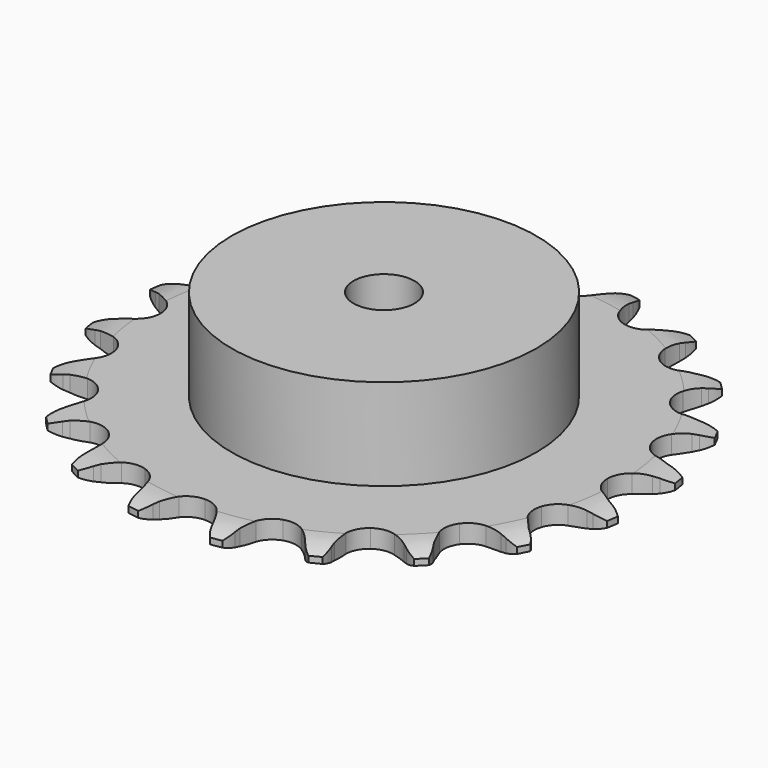
from build123d import *

# Parameters (mm, degrees)
PAD_DEPTH         = 3
SKETCH001_R       = 25
PAD001_DEPTH      = 18
SKETCH002_R       = 5
POCKET_DEPTH      = 0.001
POCKET_DEPTH_BACK = -18.001


with BuildPart() as part:
    # Sprocket → Pad (new body)
    with BuildSketch(Plane.XY):
        with BuildLine():
            ThreePointArc((-6.98096, 44.076044), (-5.717913, 42.871479), (-4.828078, 41.369994))
            Line((-4.828078, 41.369994), (-4.455089, 40.482687))
            ThreePointArc((-4.455089, 40.482687), (-3.853732, 39.281805), (-3.098833, 38.171005))
            ThreePointArc((-3.098833, 38.171005), (-1.723884, 37.057593), (0, 36.659603))
            ThreePointArc((0, 36.659603), (1.723884, 37.057593), (3.098833, 38.171005))
            ThreePointArc((3.098833, 38.171005), (3.853732, 39.281805), (4.455089, 40.482687))
            Line((4.455089, 40.482687), (4.828078, 41.369994))
            ThreePointArc((4.828078, 41.369994), (5.717913, 42.871479), (6.98096, 44.076044))
            ThreePointArc((6.98096, 44.076044), (7.809957, 42.540132), (8.192256, 40.837161))
            Line((8.192256, 40.837161), (8.272797, 39.878021))
            ThreePointArc((8.272797, 39.878021), (8.473629, 38.550085), (8.848324, 37.260375))
            ThreePointArc((8.848324, 37.260375), (9.811915, 35.776574), (11.32844, 34.865354))
            ThreePointArc((11.32844, 34.865354), (13.090937, 34.711156), (14.742654, 35.345191))
            Line((14.742654, 35.345191), (16.746879, 37.124625))
            ThreePointArc((16.746879, 37.124625), (17.052686, 37.496407), (17.375807, 37.853244))
            ThreePointArc((17.375807, 37.853244), (18.686074, 39.006267), (20.259534, 39.761574))
            ThreePointArc((20.259534, 39.761574), (20.573334, 38.04466), (20.410675, 36.306902))
            Line((20.410675, 36.306902), (20.190884, 35.369817))
            ThreePointArc((20.190884, 35.369817), (19.971531, 34.044814), (19.929345, 32.70244))
            ThreePointArc((19.929345, 32.70244), (20.387255, 30.993496), (21.547974, 29.658242))
            ThreePointArc((21.547974, 29.658242), (23.176558, 28.966949), (24.943362, 29.059543))
            Line((24.943362, 29.059543), (27.399369, 30.132546))
            ThreePointArc((27.399369, 30.132546), (27.805096, 30.391632), (28.22267, 30.631155))
            ThreePointArc((28.22267, 30.631155), (29.825112, 31.32285), (31.554964, 31.554964))
            ThreePointArc((31.554964, 31.554964), (31.32285, 29.825112), (30.631155, 28.22267))
            Line((30.631155, 28.22267), (30.132546, 27.399369))
            ThreePointArc((30.132546, 27.399369), (29.514481, 26.207), (29.059543, 24.943362))
            ThreePointArc((29.059543, 24.943362), (28.966949, 23.176558), (29.658242, 21.547974))
            ThreePointArc((29.658242, 21.547974), (30.993496, 20.387255), (32.70244, 19.929345))
            Line((32.70244, 19.929345), (35.369817, 20.190884))
            ThreePointArc((35.369817, 20.190884), (35.835748, 20.311913), (36.306902, 20.410675))
            ThreePointArc((36.306902, 20.410675), (38.04466, 20.573334), (39.761574, 20.259534))
            ThreePointArc((39.761574, 20.259534), (39.006267, 18.686074), (37.853244, 17.375807))
            Line((37.853244, 17.375807), (37.124625, 16.746879))
            ThreePointArc((37.124625, 16.746879), (36.168348, 15.803862), (35.345191, 14.742654))
            ThreePointArc((35.345191, 14.742654), (34.711156, 13.090937), (34.865354, 11.32844))
            ThreePointArc((34.865354, 11.32844), (35.776574, 9.811915), (37.260375, 8.848324))
            Line((37.260375, 8.848324), (39.878021, 8.272797))
            ThreePointArc((39.878021, 8.272797), (40.358548, 8.243922), (40.837161, 8.192256))
            ThreePointArc((40.837161, 8.192256), (42.540132, 7.809957), (44.076044, 6.98096))
            ThreePointArc((44.076044, 6.98096), (42.871479, 5.717913), (41.369994, 4.828078))
            Line((41.369994, 4.828078), (40.482687, 4.455089))
            ThreePointArc((40.482687, 4.455089), (39.281805, 3.853732), (38.171005, 3.098833))
            ThreePointArc((38.171005, 3.098833), (37.057593, 1.723884), (36.659603, 0))
            ThreePointArc((36.659603, 0), (37.057593, -1.723884), (38.171005, -3.098833))
            Line((38.171005, -3.098833), (40.482687, -4.455089))
            ThreePointArc((40.482687, -4.455089), (40.930772, -4.631042), (41.369994, -4.828078))
            ThreePointArc((41.369994, -4.828078), (42.871479, -5.717913), (44.076044, -6.98096))
            ThreePointArc((44.076044, -6.98096), (42.540132, -7.809957), (40.837161, -8.192256))
            Line((40.837161, -8.192256), (39.878021, -8.272797))
            ThreePointArc((39.878021, -8.272797), (38.550085, -8.473629), (37.260375, -8.848324))
            ThreePointArc((37.260375, -8.848324), (35.776574, -9.811915), (34.865354, -11.32844))
            ThreePointArc((34.865354, -11.32844), (34.711156, -13.090937), (35.345191, -14.742654))
            Line((35.345191, -14.742654), (37.124625, -16.746879))
            ThreePointArc((37.124625, -16.746879), (37.496407, -17.052686), (37.853244, -17.375807))
            ThreePointArc((37.853244, -17.375807), (39.006267, -18.686074), (39.761574, -20.259534))
            ThreePointArc((39.761574, -20.259534), (38.04466, -20.573334), (36.306902, -20.410675))
            Line((36.306902, -20.410675), (35.369817, -20.190884))
            ThreePointArc((35.369817, -20.190884), (34.044814, -19.971531), (32.70244, -19.929345))
            ThreePointArc((32.70244, -19.929345), (30.993496, -20.387255), (29.658242, -21.547974))
            ThreePointArc((29.658242, -21.547974), (28.966949, -23.176558), (29.059543, -24.943362))
            Line((29.059543, -24.943362), (30.132546, -27.399369))
            ThreePointArc((30.132546, -27.399369), (30.391632, -27.805096), (30.631155, -28.22267))
            ThreePointArc((30.631155, -28.22267), (31.32285, -29.825112), (31.554964, -31.554964))
            ThreePointArc((31.554964, -31.554964), (29.825112, -31.32285), (28.22267, -30.631155))
            Line((28.22267, -30.631155), (27.399369, -30.132546))
            ThreePointArc((27.399369, -30.132546), (26.207, -29.514481), (24.943362, -29.059543))
            ThreePointArc((24.943362, -29.059543), (23.176558, -28.966949), (21.547974, -29.658242))
            ThreePointArc((21.547974, -29.658242), (20.387255, -30.993496), (19.929345, -32.70244))
            Line((19.929345, -32.70244), (20.190884, -35.369817))
            ThreePointArc((20.190884, -35.369817), (20.311913, -35.835748), (20.410675, -36.306902))
            ThreePointArc((20.410675, -36.306902), (20.573334, -38.04466), (20.259534, -39.761574))
            ThreePointArc((20.259534, -39.761574), (18.686074, -39.006267), (17.375807, -37.853244))
            Line((17.375807, -37.853244), (16.746879, -37.124625))
            ThreePointArc((16.746879, -37.124625), (15.803862, -36.168348), (14.742654, -35.345191))
            ThreePointArc((14.742654, -35.345191), (13.090937, -34.711156), (11.32844, -34.865354))
            ThreePointArc((11.32844, -34.865354), (9.811915, -35.776574), (8.848324, -37.260375))
            Line((8.848324, -37.260375), (8.272797, -39.878021))
            ThreePointArc((8.272797, -39.878021), (8.243922, -40.358548), (8.192256, -40.837161))
            ThreePointArc((8.192256, -40.837161), (7.809957, -42.540132), (6.98096, -44.076044))
            ThreePointArc((6.98096, -44.076044), (5.717913, -42.871479), (4.828078, -41.369994))
            Line((4.828078, -41.369994), (4.455089, -40.482687))
            ThreePointArc((4.455089, -40.482687), (3.853732, -39.281805), (3.098833, -38.171005))
            ThreePointArc((3.098833, -38.171005), (1.723884, -37.057593), (0, -36.659603))
            ThreePointArc((0, -36.659603), (-1.723884, -37.057593), (-3.098833, -38.171005))
            Line((-3.098833, -38.171005), (-4.455089, -40.482687))
            ThreePointArc((-4.455089, -40.482687), (-4.631042, -40.930772), (-4.828078, -41.369994))
            ThreePointArc((-4.828078, -41.369994), (-5.717913, -42.871479), (-6.98096, -44.076044))
            ThreePointArc((-6.98096, -44.076044), (-7.809957, -42.540132), (-8.192256, -40.837161))
            Line((-8.192256, -40.837161), (-8.272797, -39.878021))
            ThreePointArc((-8.272797, -39.878021), (-8.473629, -38.550085), (-8.848324, -37.260375))
            ThreePointArc((-8.848324, -37.260375), (-9.811915, -35.776574), (-11.32844, -34.865354))
            ThreePointArc((-11.32844, -34.865354), (-13.090937, -34.711156), (-14.742654, -35.345191))
            Line((-14.742654, -35.345191), (-16.746879, -37.124625))
            ThreePointArc((-16.746879, -37.124625), (-17.052686, -37.496407), (-17.375807, -37.853244))
            ThreePointArc((-17.375807, -37.853244), (-18.686074, -39.006267), (-20.259534, -39.761574))
            ThreePointArc((-20.259534, -39.761574), (-20.573334, -38.04466), (-20.410675, -36.306902))
            Line((-20.410675, -36.306902), (-20.190884, -35.369817))
            ThreePointArc((-20.190884, -35.369817), (-19.971531, -34.044814), (-19.929345, -32.70244))
            ThreePointArc((-19.929345, -32.70244), (-20.387255, -30.993496), (-21.547974, -29.658242))
            ThreePointArc((-21.547974, -29.658242), (-23.176558, -28.966949), (-24.943362, -29.059543))
            Line((-24.943362, -29.059543), (-27.399369, -30.132546))
            ThreePointArc((-27.399369, -30.132546), (-27.805096, -30.391632), (-28.22267, -30.631155))
            ThreePointArc((-28.22267, -30.631155), (-29.825112, -31.32285), (-31.554964, -31.554964))
            ThreePointArc((-31.554964, -31.554964), (-31.32285, -29.825112), (-30.631155, -28.22267))
            Line((-30.631155, -28.22267), (-30.132546, -27.399369))
            ThreePointArc((-30.132546, -27.399369), (-29.514481, -26.207), (-29.059543, -24.943362))
            ThreePointArc((-29.059543, -24.943362), (-28.966949, -23.176558), (-29.658242, -21.547974))
            ThreePointArc((-29.658242, -21.547974), (-30.993496, -20.387255), (-32.70244, -19.929345))
            Line((-32.70244, -19.929345), (-35.369817, -20.190884))
            ThreePointArc((-35.369817, -20.190884), (-35.835748, -20.311913), (-36.306902, -20.410675))
            ThreePointArc((-36.306902, -20.410675), (-38.04466, -20.573334), (-39.761574, -20.259534))
            ThreePointArc((-39.761574, -20.259534), (-39.006267, -18.686074), (-37.853244, -17.375807))
            Line((-37.853244, -17.375807), (-37.124625, -16.746879))
            ThreePointArc((-37.124625, -16.746879), (-36.168348, -15.803862), (-35.345191, -14.742654))
            ThreePointArc((-35.345191, -14.742654), (-34.711156, -13.090937), (-34.865354, -11.32844))
            ThreePointArc((-34.865354, -11.32844), (-35.776574, -9.811915), (-37.260375, -8.848324))
            Line((-37.260375, -8.848324), (-39.878021, -8.272797))
            ThreePointArc((-39.878021, -8.272797), (-40.358548, -8.243922), (-40.837161, -8.192256))
            ThreePointArc((-40.837161, -8.192256), (-42.540132, -7.809957), (-44.076044, -6.98096))
            ThreePointArc((-44.076044, -6.98096), (-42.871479, -5.717913), (-41.369994, -4.828078))
            Line((-41.369994, -4.828078), (-40.482687, -4.455089))
            ThreePointArc((-40.482687, -4.455089), (-39.281805, -3.853732), (-38.171005, -3.098833))
            ThreePointArc((-38.171005, -3.098833), (-37.057593, -1.723884), (-36.659603, 0))
            ThreePointArc((-36.659603, 0), (-37.057593, 1.723884), (-38.171005, 3.098833))
            Line((-38.171005, 3.098833), (-40.482687, 4.455089))
            ThreePointArc((-40.482687, 4.455089), (-40.930772, 4.631042), (-41.369994, 4.828078))
            ThreePointArc((-41.369994, 4.828078), (-42.871479, 5.717913), (-44.076044, 6.98096))
            ThreePointArc((-44.076044, 6.98096), (-42.540132, 7.809957), (-40.837161, 8.192256))
            Line((-40.837161, 8.192256), (-39.878021, 8.272797))
            ThreePointArc((-39.878021, 8.272797), (-38.550085, 8.473629), (-37.260375, 8.848324))
            ThreePointArc((-37.260375, 8.848324), (-35.776574, 9.811915), (-34.865354, 11.32844))
            ThreePointArc((-34.865354, 11.32844), (-34.711156, 13.090937), (-35.345191, 14.742654))
            Line((-35.345191, 14.742654), (-37.124625, 16.746879))
            ThreePointArc((-37.124625, 16.746879), (-37.496407, 17.052686), (-37.853244, 17.375807))
            ThreePointArc((-37.853244, 17.375807), (-39.006267, 18.686074), (-39.761574, 20.259534))
            ThreePointArc((-39.761574, 20.259534), (-38.04466, 20.573334), (-36.306902, 20.410675))
            Line((-36.306902, 20.410675), (-35.369817, 20.190884))
            ThreePointArc((-35.369817, 20.190884), (-34.044814, 19.971531), (-32.70244, 19.929345))
            ThreePointArc((-32.70244, 19.929345), (-30.993496, 20.387255), (-29.658242, 21.547974))
            ThreePointArc((-29.658242, 21.547974), (-28.966949, 23.176558), (-29.059543, 24.943362))
            Line((-29.059543, 24.943362), (-30.132546, 27.399369))
            ThreePointArc((-30.132546, 27.399369), (-30.391632, 27.805096), (-30.631155, 28.22267))
            ThreePointArc((-30.631155, 28.22267), (-31.32285, 29.825112), (-31.554964, 31.554964))
            ThreePointArc((-31.554964, 31.554964), (-29.825112, 31.32285), (-28.22267, 30.631155))
            Line((-28.22267, 30.631155), (-27.399369, 30.132546))
            ThreePointArc((-27.399369, 30.132546), (-26.207, 29.514481), (-24.943362, 29.059543))
            ThreePointArc((-24.943362, 29.059543), (-23.176558, 28.966949), (-21.547974, 29.658242))
            ThreePointArc((-21.547974, 29.658242), (-20.387255, 30.993496), (-19.929345, 32.70244))
            Line((-19.929345, 32.70244), (-20.190884, 35.369817))
            ThreePointArc((-20.190884, 35.369817), (-20.311913, 35.835748), (-20.410675, 36.306902))
            ThreePointArc((-20.410675, 36.306902), (-20.573334, 38.04466), (-20.259534, 39.761574))
            ThreePointArc((-20.259534, 39.761574), (-18.686074, 39.006267), (-17.375807, 37.853244))
            Line((-17.375807, 37.853244), (-16.746879, 37.124625))
            ThreePointArc((-16.746879, 37.124625), (-15.803862, 36.168348), (-14.742654, 35.345191))
            ThreePointArc((-14.742654, 35.345191), (-13.090937, 34.711156), (-11.32844, 34.865354))
            ThreePointArc((-11.32844, 34.865354), (-9.811915, 35.776574), (-8.848324, 37.260375))
            Line((-8.848324, 37.260375), (-8.272797, 39.878021))
            ThreePointArc((-8.272797, 39.878021), (-8.243922, 40.358548), (-8.192256, 40.837161))
            ThreePointArc((-8.192256, 40.837161), (-7.809957, 42.540132), (-6.98096, 44.076044))
        make_face()
    extrude(amount=PAD_DEPTH)

    # Sketch → Groove (revolve, cut)
    with BuildSketch(Plane.XZ):
        with BuildLine():
            Line((38.45, 0), (43.45, 0))
            Line((48.45, 0), (43.45, 0))
            Line((48.45, 3), (48.45, 0))
            Line((43.45, 3), (48.45, 3))
            Line((38.45, 3), (43.45, 3))
            ThreePointArc((43.45, 2), (40.99951, 2.747549), (38.45, 3))
            Line((43.45, 1), (43.45, 2))
            ThreePointArc((38.45, 0), (40.99951, 0.252451), (43.45, 1))
        make_face()
    revolve(axis=Axis((0, 0, 0), (0, 0, 1)), mode=Mode.SUBTRACT)

    # Sketch001 → Pad001 (join)
    with BuildSketch(Plane.XY):
        Circle(SKETCH001_R)
    extrude(amount=PAD001_DEPTH)

    # Sketch002 → Pocket (cut, two sides)
    with BuildSketch(Plane.XY) as pocket_sk:
        Circle(SKETCH002_R)
    extrude(amount=-POCKET_DEPTH, mode=Mode.SUBTRACT)
    extrude(pocket_sk.sketch, amount=-POCKET_DEPTH_BACK, mode=Mode.SUBTRACT)


solid = part.part
